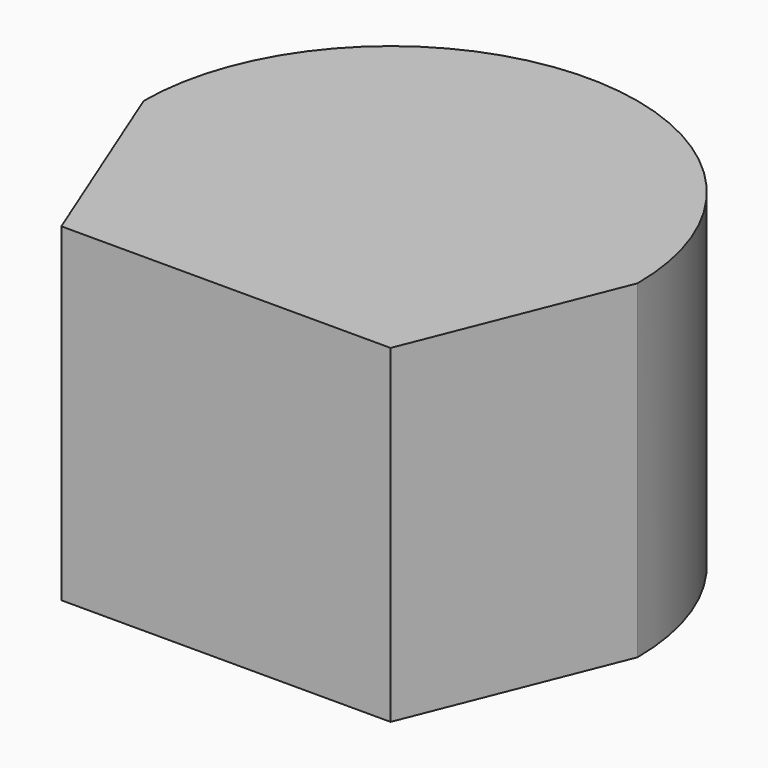
from build123d import *

# Parameters (mm, degrees)
PAD_DEPTH    = 40
SKETCH001_W  = 48
SKETCH001_H  = 30
POCKET_DEPTH = 30


with BuildPart() as part:
    # Sketch → Pad (new body)
    with BuildSketch(Plane.XY):
        with BuildLine():
            ThreePointArc((30, 0), (0, 30), (-30, 0))
            Line((-30, 0), (-20, -25))
            Line((-20, -25), (20, -25))
            Line((20, -25), (30, 0))
        make_face()
    extrude(amount=PAD_DEPTH)

    # Sketch001 → Pocket (cut)
    with BuildSketch(Plane.XZ):
        with Locations((0, 20)):
            Rectangle(SKETCH001_W, SKETCH001_H)
    extrude(amount=-POCKET_DEPTH, mode=Mode.SUBTRACT)


solid = part.part
